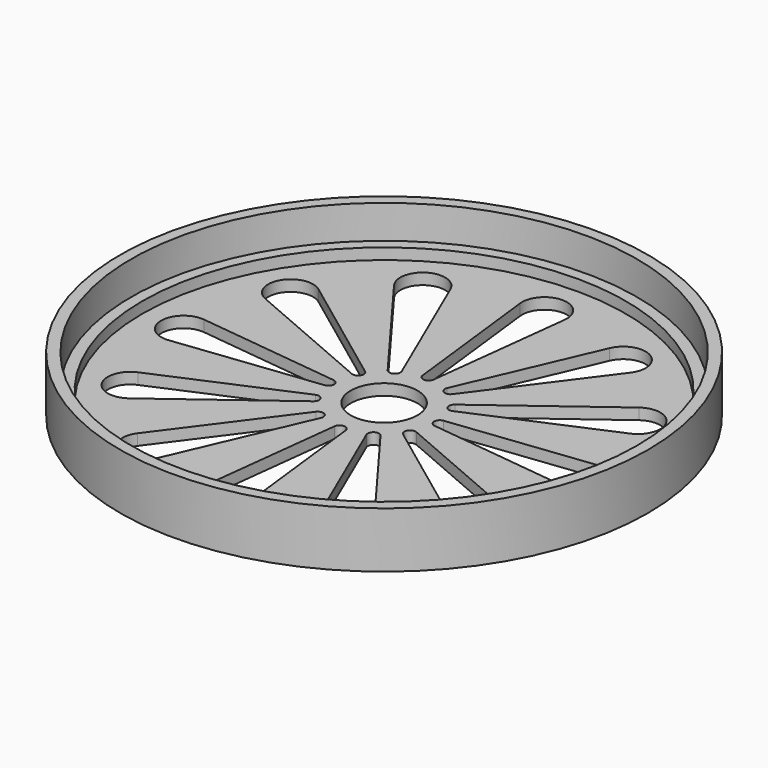
from build123d import *

# Parameters (mm, degrees)
SKETCH_R           = 23.7
PAD_DEPTH          = 1
POCKET_DEPTH       = 135.083363
POLARPATTERN_COUNT = 12
SKETCH002_R        = 23.7
SKETCH002_R_2      = 22.7
PAD001_DEPTH       = 5
SKETCH003_R        = 22.7
SKETCH003_R_2      = 21.7
PAD002_DEPTH       = 2
SKETCH004_R        = 3
POCKET001_DEPTH    = 5.001


with BuildPart() as part:
    # Sketch → Pad (new body)
    with BuildSketch(Plane.XY):
        Circle(SKETCH_R)
    extrude(amount=PAD_DEPTH)

    # Sketch001 → Pocket (cut, through all)
    with BuildSketch(Plane.XY):
        with BuildLine():
            ThreePointArc((-0.5, 4.941518), (0, 4.496592), (0.5, 4.941518))
            Line((2.000001, 17.766074), (0.5, 4.941518))
            ThreePointArc((2.000001, 17.766074), (-7e-06, 20.013635), (-1.999999, 17.766059))
            Line((-0.5, 4.941518), (-1.999999, 17.766059))
        make_face()
    pocket = extrude(amount=POCKET_DEPTH, mode=Mode.SUBTRACT)

    # PolarPattern: Pocket ×12 about axis
    polarpattern_axis = Axis((0, 0, 0), (0, 0, 1))
    for i in range(1, POLARPATTERN_COUNT):
        add(pocket.rotate(polarpattern_axis, i * 360 / POLARPATTERN_COUNT), mode=Mode.SUBTRACT)

    # Sketch002 → Pad001 (join)
    with BuildSketch(Plane.XY):
        Circle(SKETCH002_R)
        Circle(SKETCH002_R_2, mode=Mode.SUBTRACT)
    extrude(amount=PAD001_DEPTH)

    # Sketch003 → Pad002 (join)
    with BuildSketch(Plane.XY):
        Circle(SKETCH003_R)
        Circle(SKETCH003_R_2, mode=Mode.SUBTRACT)
    extrude(amount=PAD002_DEPTH)

    # Sketch004 → Pocket001 (cut, through all)
    with BuildSketch(Plane.XY):
        Circle(SKETCH004_R)
    extrude(amount=POCKET001_DEPTH, mode=Mode.SUBTRACT)


solid = part.part
